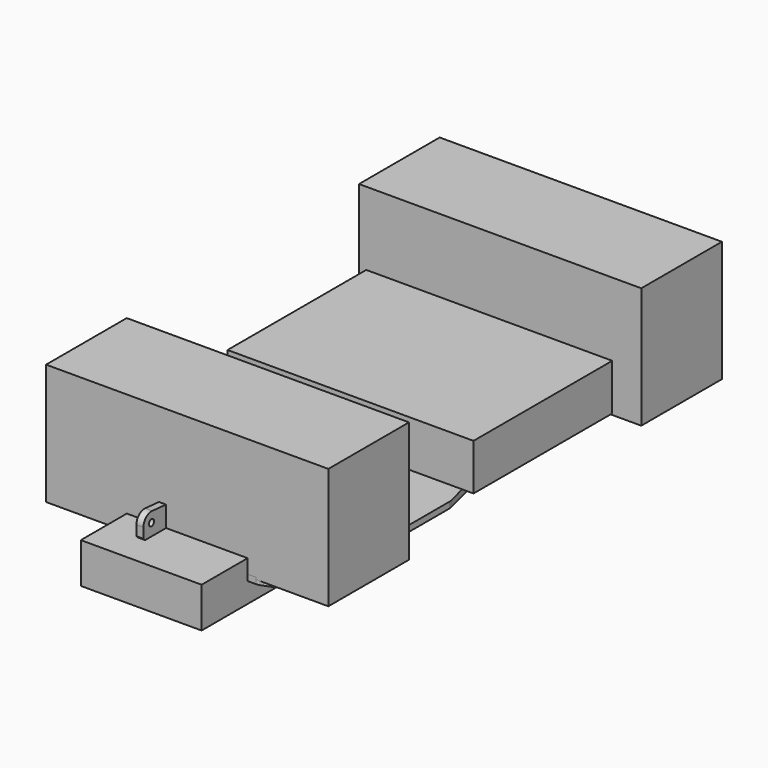
from build123d import *

# Parameters (mm, degrees)
BOX_W                    = 140
BOX_H                    = 50
BOX_DEPTH                = 60
BOX001_W                 = 140
BOX001_H                 = 50
BOX001_DEPTH             = 60
SKETCH001_W              = 59.90632
SKETCH001_H              = 54.576248
PAD001_DEPTH             = 20
CYLINDER_R               = 1.5
CYLINDER_DEPTH           = 22
CYLINDER_PITCH_ANGLE     = 90
CYLINDER001_R            = 1.5
CYLINDER001_DEPTH        = 22
CYLINDER001_PITCH_ANGLE  = 90
BOX002_W                 = 5
BOX002_H                 = 30
BOX002_DEPTH             = 14
BOX003_W                 = 122
BOX003_H                 = 86
BOX003_DEPTH             = 23
CYLINDER002_R            = 1.5
CYLINDER002_DEPTH        = 10
CYLINDER003_R            = 1.5
CYLINDER003_DEPTH        = 10
PAD_DEPTH                = 3
FILLET_R                 = 5
CYLINDER010_R            = 1.5
CYLINDER010_DEPTH        = 20
CYLINDER009_R            = 1.5
CYLINDER009_DEPTH        = 20
CYLINDER008_R            = 1.5
CYLINDER008_DEPTH        = 20
SKETCH002_R              = 1.6
PAD002_DEPTH             = 3.5
SKETCH006_R              = 1.5
PAD004_DEPTH             = 3
FILLET001_R              = 1
SKETCH005_R              = 9
SKETCH005_R_2            = 1.6
PAD003_DEPTH             = 3
CYLINDER006_R            = 1.5
CYLINDER006_DEPTH        = 14
CYLINDER004_R            = 1.6
CYLINDER004_DEPTH        = 10
CYLINDER004_PITCH_ANGLE  = 90
CYLINDER005_R            = 1.6
CYLINDER005_DEPTH        = 10
CYLINDER005_PITCH_ANGLE  = 90
CYLINDER007_R            = 1.5
CYLINDER007_DEPTH        = 14
BOX004_W                 = 8
BOX004_H                 = 43
BOX004_DEPTH             = 8
FILLET002_R              = 4
CYLINDER012_R            = 1.6
CYLINDER012_DEPTH        = 37
CYLINDER012_PITCH_ANGLE  = 90
CYLINDER013_R            = 1.6
CYLINDER013_DEPTH        = 37
CYLINDER013_PITCH_ANGLE  = 90
CYLINDER011_R            = 1.6
CYLINDER011_DEPTH        = 37
CYLINDER011_PITCH_ANGLE  = 90
CYLINDER014_R            = 14
CYLINDER014_DEPTH        = 16
CYLINDER014_PITCH_ANGLE  = 90
PRISM001_DEPTH           = 10
PRISM001_PLACEMENT_ANGLE = 90
PRISM_DEPTH              = 10
PRISM_PLACEMENT_ANGLE    = 90
PRISM002_DEPTH           = 10
PRISM002_PLACEMENT_ANGLE = 90
SKETCH008_R              = 1.6
PAD005_DEPTH             = 8
FILLET003_R              = 1
FILLET004_R              = 4


with BuildPart() as cube:
    # Box → Box (new body)
    with BuildSketch(Plane(origin=(-70, 0, 2), x_dir=(1, 0, 0), z_dir=(0, 0, 1))):
        with Locations((70, 25)):
            Rectangle(BOX_W, BOX_H)
    extrude(amount=BOX_DEPTH)


with BuildPart() as cube001:
    # Box001 → Box001 (new body)
    with BuildSketch(Plane(origin=(-70, 194, 2), x_dir=(1, 0, 0), z_dir=(0, 0, 1))):
        with Locations((70, 25)):
            Rectangle(BOX001_W, BOX001_H)
    extrude(amount=BOX001_DEPTH)


with BuildPart() as pad001:
    # Sketch001 → Pad001 (new body)
    with BuildSketch(Plane.XY.offset(10)):
        with Locations((0, -1.240184)):
            Rectangle(SKETCH001_W, SKETCH001_H)
    extrude(amount=-PAD001_DEPTH)


with BuildPart() as cylinder:
    # Cylinder → Cylinder (new body)
    with BuildSketch(Plane.XY):
        Circle(CYLINDER_R)
    extrude(amount=CYLINDER_DEPTH)


with BuildPart() as cylinder_1:
    # Cylinder pitch: moved
    add(cylinder.part.rotate(Axis((0, 0, 0), (0, 1, 0)), CYLINDER_PITCH_ANGLE))


with BuildPart() as cylinder_2:
    # Cylinder placement: moved
    add(cylinder_1.part.moved(Location((36, 15, 8))))


with BuildPart() as fusion:
    # Cylinder001 → Cylinder001 (new body)
    with BuildSketch(Plane.XY):
        Circle(CYLINDER001_R)
    extrude(amount=CYLINDER001_DEPTH)


with BuildPart() as fusion_1:
    # Cylinder001 pitch: moved
    add(fusion.part.rotate(Axis((0, 0, 0), (0, 1, 0)), CYLINDER001_PITCH_ANGLE))


with BuildPart() as fusion_2:
    # Cylinder001 placement: moved
    add(fusion_1.part.moved(Location((36, 35, 8))))

    # Fusion: union Cylinder
    add(cylinder_2.part)


with BuildPart() as cut002:
    # Box002 → Box002 (new body)
    with BuildSketch(Plane(origin=(45, 10, 0), x_dir=(1, 0, 0), z_dir=(0, 0, 1))):
        with Locations((2.5, 15)):
            Rectangle(BOX002_W, BOX002_H)
    extrude(amount=BOX002_DEPTH)

    # Cut002: cut Fusion
    add(fusion_2.part, mode=Mode.SUBTRACT)


with BuildPart() as part_mirroring:
    # Part__Mirroring: instance of Cut002
    add(cut002.part.mirror(Plane(origin=(0, 0, 0), x_dir=(0, -1, 0), z_dir=(1, 0, 0))))


with BuildPart() as fusion003:
    # Fusion003 base: copy of Cut002
    add(cut002.part)

    # Fusion003: union Part__Mirroring
    add(part_mirroring.part)


with BuildPart() as cube003:
    # Box003 → Box003 (new body)
    with BuildSketch(Plane(origin=(-60, 100, 8), x_dir=(1, 0, 0), z_dir=(0, 0, 1))):
        with Locations((61, 43)):
            Rectangle(BOX003_W, BOX003_H)
    extrude(amount=BOX003_DEPTH)


with BuildPart() as cylinder002:
    # Cylinder002 → Cylinder002 (new body)
    with BuildSketch(Plane(origin=(-13.75, 256, -1e-06), x_dir=(1, 0, 0), z_dir=(0, 0, 1))):
        Circle(CYLINDER002_R)
    extrude(amount=CYLINDER002_DEPTH)


with BuildPart() as fusion002:
    # Cylinder003 → Cylinder003 (new body)
    with BuildSketch(Plane(origin=(13.75, 256, -1e-06), x_dir=(1, 0, 0), z_dir=(0, 0, 1))):
        Circle(CYLINDER003_R)
    extrude(amount=CYLINDER003_DEPTH)

    # Fusion002: union Cylinder002
    add(cylinder002.part)


with BuildPart() as fillet_body:
    # Sketch → Pad (new body)
    with BuildSketch(Plane.XY):
        Polygon((-53, 7), (-53, 97), (-24.5, 210), (-24.5, 234), (-18.5, 234), (-18.5, 260), (18.5, 260), (18.5, 234), (24.5, 234), (24.5, 210), (53, 97), (53, 7), (35, 0), (-35, 0), align=None)
    extrude(amount=PAD_DEPTH)

    # Cut: cut Fusion002
    add(fusion002.part, mode=Mode.SUBTRACT)

    # Fillet
    fillet_edges = [fillet_body.edges().sort_by_distance(p)[0] for p in [
        (-53, 7, 1.5),
        (-35, 0, 1.5),
        (-53, 97, 1.5),
        (35, 0, 1.5),
        (-24.5, 210, 1.5),
        (53, 7, 1.5),
        (53, 97, 1.5),
        (-18.5, 234, 1.5),
        (24.5, 210, 1.5),
        (-18.5, 260, 1.5),
        (18.5, 260, 1.5),
        (18.5, 234, 1.5),
    ]]
    fillet(fillet_edges, radius=FILLET_R)


with BuildPart() as cylinder010:
    # Cylinder010 → Cylinder010 (new body)
    with BuildSketch(Plane(origin=(21, 20, 0), x_dir=(1, 0, 0), z_dir=(0, 0, 1))):
        Circle(CYLINDER010_R)
    extrude(amount=CYLINDER010_DEPTH)


with BuildPart() as cylinder009:
    # Cylinder009 → Cylinder009 (new body)
    with BuildSketch(Plane(origin=(19, 35, 0), x_dir=(1, 0, 0), z_dir=(0, 0, 1))):
        Circle(CYLINDER009_R)
    extrude(amount=CYLINDER009_DEPTH)


with BuildPart() as fusion006:
    # Cylinder008 → Cylinder008 (new body)
    with BuildSketch(Plane(origin=(19, 5, 0), x_dir=(1, 0, 0), z_dir=(0, 0, 1))):
        Circle(CYLINDER008_R)
    extrude(amount=CYLINDER008_DEPTH)

    # Fusion006: union Cylinder010, Cylinder009
    add(cylinder010.part)
    add(cylinder009.part)


with BuildPart() as pad002:
    # Sketch002 → Pad002 (new body)
    with BuildSketch(Plane.YZ.offset(10.5)):
        with BuildLine():
            Line((27.424749, 35.965619), (27.499846, 25.044697))
            ThreePointArc((20.451375, 18.523194), (25.414381, 20.228916), (27.499846, 25.044697))
            Line((20.451375, 18.523194), (-8.577964, 20.982157))
            ThreePointArc((-8.577964, 20.982157), (-12.383033, 19.681724), (-14, 15.999999))
            Line((-14, 15.999999), (-14, 11))
            Line((-3, 0), (-14, 11))
            Line((-3, 0), (0, 0))
            Line((0, 0), (0, 4))
            Line((0, 4), (40, 4))
            Line((40, 12), (40, 4))
            Line((40, 12), (37.396706, 36.527701))
            ThreePointArc((37.396706, 36.527701), (32.143245, 40.992076), (27.424749, 35.965619))
        make_face()
        with Locations((-9, 16)):
            Circle(SKETCH002_R, mode=Mode.SUBTRACT)
        with Locations((32.42463, 36)):
            Circle(SKETCH002_R, mode=Mode.SUBTRACT)
    extrude(amount=PAD002_DEPTH)


with BuildPart() as fillet001:
    # Sketch006 → Pad004 (new body)
    with BuildSketch(Plane.XY.offset(4)):
        Polygon((13, 40), (21.25, 40), (25, 31), (25, 9), (21.25, 0), (13, 0), align=None)
        with Locations((19, 35)):
            Circle(SKETCH006_R, mode=Mode.SUBTRACT)
        with Locations((21, 20)):
            Circle(SKETCH006_R, mode=Mode.SUBTRACT)
        with Locations((19, 5)):
            Circle(SKETCH006_R, mode=Mode.SUBTRACT)
    extrude(amount=PAD004_DEPTH)

    # Fusion007: union Pad002
    add(pad002.part)

    # Fillet001
    fillet001_edges = [fillet001.edges().sort_by_distance(p)[0] for p in [
        (21.25, 40, 5.5),
        (25, 31, 5.5),
        (25, 9, 5.5),
        (14, 20, 7),
        (21.25, 0, 5.5),
    ]]
    fillet(fillet001_edges, radius=FILLET001_R)


with BuildPart() as part_mirroring001:
    # Part__Mirroring001: instance of Fillet001
    add(fillet001.part.mirror(Plane(origin=(0, 0, 0), x_dir=(0, -1, 0), z_dir=(1, 0, 0))))


with BuildPart() as pad003:
    # Sketch005 → Pad003 (new body)
    with BuildSketch(Plane.YZ.offset(50)):
        with BuildLine():
            ThreePointArc((30.899515, 34.899475), (15.642445, 37.934319), (7, 25))
            Line((7, 25), (7, 4))
            Line((7, 4), (50, 4))
            Line((50, 4), (50, 15.79899))
            Line((50, 15.79899), (30.899515, 34.899475))
        make_face()
        with Locations((21, 25)):
            Circle(SKETCH005_R, mode=Mode.SUBTRACT)
        with Locations((11, 8)):
            Circle(SKETCH005_R_2, mode=Mode.SUBTRACT)
        with Locations((46, 8)):
            Circle(SKETCH005_R_2, mode=Mode.SUBTRACT)
    extrude(amount=PAD003_DEPTH)


with BuildPart() as part_mirroring002:
    # Part__Mirroring002: instance of Pad003
    add(pad003.part.mirror(Plane(origin=(0, 0, 0), x_dir=(0, -1, 0), z_dir=(1, 0, 0))))


with BuildPart() as cylinder006:
    # Cylinder006 → Cylinder006 (new body)
    with BuildSketch(Plane(origin=(4, 33, 0), x_dir=(1, 0, 0), z_dir=(0, 0, 1))):
        Circle(CYLINDER006_R)
    extrude(amount=CYLINDER006_DEPTH)


with BuildPart() as cylinder004:
    # Cylinder004 → Cylinder004 (new body)
    with BuildSketch(Plane.XY):
        Circle(CYLINDER004_R)
    extrude(amount=CYLINDER004_DEPTH)


with BuildPart() as cylinder004_1:
    # Cylinder004 pitch: moved
    add(cylinder004.part.rotate(Axis((0, 0, 0), (0, 1, 0)), CYLINDER004_PITCH_ANGLE))


with BuildPart() as cylinder004_2:
    # Cylinder004 placement: moved
    add(cylinder004_1.part.moved(Location((-1, 4, 8))))


with BuildPart() as cylinder005:
    # Cylinder005 → Cylinder005 (new body)
    with BuildSketch(Plane.XY):
        Circle(CYLINDER005_R)
    extrude(amount=CYLINDER005_DEPTH)


with BuildPart() as cylinder005_1:
    # Cylinder005 pitch: moved
    add(cylinder005.part.rotate(Axis((0, 0, 0), (0, 1, 0)), CYLINDER005_PITCH_ANGLE))


with BuildPart() as cylinder005_2:
    # Cylinder005 placement: moved
    add(cylinder005_1.part.moved(Location((-1, 39, 8))))


with BuildPart() as fusion004:
    # Cylinder007 → Cylinder007 (new body)
    with BuildSketch(Plane(origin=(4, 10, 0), x_dir=(1, 0, 0), z_dir=(0, 0, 1))):
        Circle(CYLINDER007_R)
    extrude(amount=CYLINDER007_DEPTH)

    # Fusion004: union Cylinder006, Cylinder004, Cylinder005
    add(cylinder006.part)
    add(cylinder004_2.part)
    add(cylinder005_2.part)


with BuildPart() as fillet002:
    # Box004 → Box004 (new body)
    with BuildSketch(Plane.XY.offset(4)):
        with Locations((4, 21.5)):
            Rectangle(BOX004_W, BOX004_H)
    extrude(amount=BOX004_DEPTH)

    # Cut003: cut Fusion004
    add(fusion004.part, mode=Mode.SUBTRACT)

    # Fillet002
    fillet002_edges = [fillet002.edges().sort_by_distance(p)[0] for p in [
        (4, 0, 12),
    ]]
    fillet(fillet002_edges, radius=FILLET002_R)


with BuildPart() as cylinder012:
    # Cylinder012 → Cylinder012 (new body)
    with BuildSketch(Plane.XY):
        Circle(CYLINDER012_R)
    extrude(amount=CYLINDER012_DEPTH)


with BuildPart() as cylinder012_1:
    # Cylinder012 pitch: moved
    add(cylinder012.part.rotate(Axis((0, 0, 0), (0, 1, 0)), CYLINDER012_PITCH_ANGLE))


with BuildPart() as cylinder012_2:
    # Cylinder012 placement: moved
    add(cylinder012_1.part.moved(Location((41, 46, 8))))


with BuildPart() as cylinder013:
    # Cylinder013 → Cylinder013 (new body)
    with BuildSketch(Plane.XY):
        Circle(CYLINDER013_R)
    extrude(amount=CYLINDER013_DEPTH)


with BuildPart() as cylinder013_1:
    # Cylinder013 pitch: moved
    add(cylinder013.part.rotate(Axis((0, 0, 0), (0, 1, 0)), CYLINDER013_PITCH_ANGLE))


with BuildPart() as cylinder013_2:
    # Cylinder013 placement: moved
    add(cylinder013_1.part.moved(Location((41, 11, 8))))


with BuildPart() as fusion008:
    # Cylinder011 → Cylinder011 (new body)
    with BuildSketch(Plane.XY):
        Circle(CYLINDER011_R)
    extrude(amount=CYLINDER011_DEPTH)


with BuildPart() as fusion008_1:
    # Cylinder011 pitch: moved
    add(fusion008.part.rotate(Axis((0, 0, 0), (0, 1, 0)), CYLINDER011_PITCH_ANGLE))


with BuildPart() as fusion008_2:
    # Cylinder011 placement: moved
    add(fusion008_1.part.moved(Location((25, 70, 8))))

    # Fusion008: union Cylinder012, Cylinder013
    add(cylinder012_2.part)
    add(cylinder013_2.part)


with BuildPart() as cylinder014:
    # Cylinder014 → Cylinder014 (new body)
    with BuildSketch(Plane.XY):
        Circle(CYLINDER014_R)
    extrude(amount=CYLINDER014_DEPTH)


with BuildPart() as cylinder014_1:
    # Cylinder014 pitch: moved
    add(cylinder014.part.rotate(Axis((0, 0, 0), (0, 1, 0)), CYLINDER014_PITCH_ANGLE))


with BuildPart() as cylinder014_2:
    # Cylinder014 placement: moved
    add(cylinder014_1.part.moved(Location((40, 21, 25))))


with BuildPart() as prism001:
    # Prism001 → Prism001 (new body)
    with BuildSketch(Plane.XY):
        Polygon((3.2, 0), (1.6, 2.771281), (-1.6, 2.771281), (-3.2, 0), (-1.6, -2.771281), (1.6, -2.771281), align=None)
    extrude(amount=PRISM001_DEPTH)


with BuildPart() as prism001_1:
    # Prism001 placement: moved
    add(prism001.part.moved(Location((46, 40, 8))).rotate(Axis((46, 40, 8), (0, 0, 1)), PRISM001_PLACEMENT_ANGLE))


with BuildPart() as prism:
    # Prism → Prism (new body)
    with BuildSketch(Plane.XY):
        Polygon((3.2, 0), (1.6, 2.771281), (-1.6, 2.771281), (-3.2, 0), (-1.6, -2.771281), (1.6, -2.771281), align=None)
    extrude(amount=PRISM_DEPTH)


with BuildPart() as prism_1:
    # Prism placement: moved
    add(prism.part.moved(Location((46, 17, 8))).rotate(Axis((46, 17, 8), (0, 0, 1)), PRISM_PLACEMENT_ANGLE))


with BuildPart() as fusion009:
    # Prism002 → Prism002 (new body)
    with BuildSketch(Plane.XY):
        Polygon((3.2, 0), (1.6, 2.771281), (-1.6, 2.771281), (-3.2, 0), (-1.6, -2.771281), (1.6, -2.771281), align=None)
    extrude(amount=PRISM002_DEPTH)


with BuildPart() as fusion009_1:
    # Prism002 placement: moved
    add(fusion009.part.moved(Location((30, 64, 8))).rotate(Axis((30, 64, 8), (0, 0, 1)), PRISM002_PLACEMENT_ANGLE))

    # Fusion009: union Prism001, Prism
    add(prism001_1.part)
    add(prism_1.part)


with BuildPart() as cut006:
    # Sketch008 → Pad005 (new body)
    with BuildSketch(Plane.XY.offset(4)):
        Polygon((26, 74), (26, 46.108435), (42, 43.287203), (42, 7), (50, 7), (50, 50), (34, 52.821232), (34, 74), align=None)
        with Locations((30, 64)):
            Circle(SKETCH008_R, mode=Mode.SUBTRACT)
        with Locations((46, 40)):
            Circle(SKETCH008_R, mode=Mode.SUBTRACT)
        with Locations((46, 17)):
            Circle(SKETCH008_R, mode=Mode.SUBTRACT)
    extrude(amount=PAD005_DEPTH)

    # Fillet003
    fillet003_edges = [cut006.edges().sort_by_distance(p)[0] for p in [
        (26, 46.108435, 8),
        (42, 43.287203, 8),
        (34, 52.821232, 8),
    ]]
    fillet(fillet003_edges, radius=FILLET003_R)

    # Fillet004
    fillet004_edges = [cut006.edges().sort_by_distance(p)[0] for p in [
        (30, 74, 12),
        (46, 7, 12),
    ]]
    fillet(fillet004_edges, radius=FILLET004_R)

    # Cut004: cut Fusion009
    add(fusion009_1.part, mode=Mode.SUBTRACT)

    # Cut005: cut Cylinder014
    add(cylinder014_2.part, mode=Mode.SUBTRACT)

    # Cut006: cut Fusion008
    add(fusion008_2.part, mode=Mode.SUBTRACT)


with BuildPart() as part_mirroring003:
    # Part__Mirroring003: instance of Cut006
    add(cut006.part.mirror(Plane(origin=(0, 0, 0), x_dir=(0, -1, 0), z_dir=(1, 0, 0))))


solid = Compound([cube.part, cube001.part, pad001.part, fusion003.part, cube003.part, fillet_body.part, fusion006.part, part_mirroring001.part, part_mirroring002.part, fillet002.part, part_mirroring003.part])
